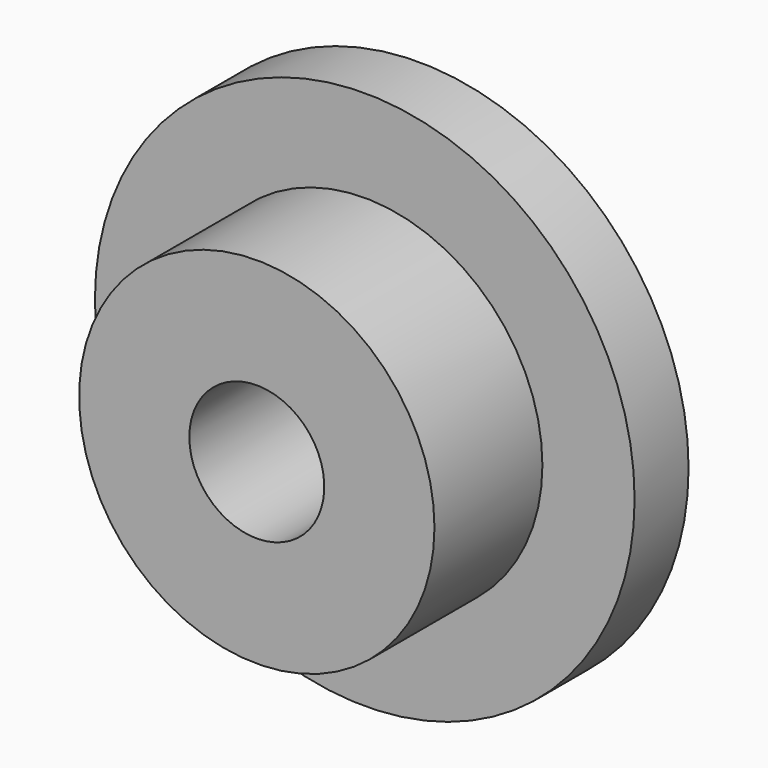
from build123d import *

# Parameters (mm, degrees)
F0_R     = 6
F1_DEPTH = 1.5
F2_R     = 3.95
F3_DEPTH = 3
F5_D     = 3


with BuildPart() as f1:
    # F0 (on Front) → F1 (new body)
    with BuildSketch(Plane.XZ):
        Circle(F0_R)
    extrude(amount=F1_DEPTH)

    # F2 (on face) → F3 (join)
    with BuildSketch(Plane.XZ.offset(1.5)):
        Circle(F2_R)
    extrude(amount=F3_DEPTH)

    # F5 (through all)
    with Locations(Plane.XZ.offset(4.5)):
        with Locations((0, 0)):
            Hole(F5_D / 2)


solid = f1.part
